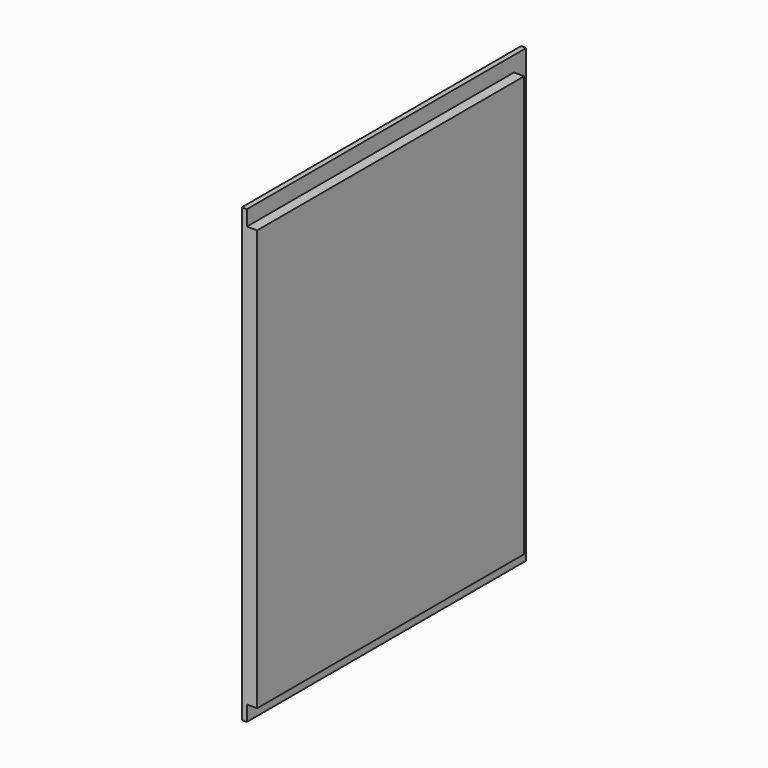
from build123d import *

# Parameters (mm, degrees)
SKETCH046_W             = 410
SKETCH046_H             = 530
PAD017_DEPTH            = 18
SKETCH047_W             = 410
SKETCH047_H             = 18
POCKET029_DEPTH         = 12
SKETCH048_W             = 18
SKETCH048_H             = 530
POCKET030_DEPTH         = 12
BODY016_ROLL_ANGLE      = -90
BODY016_PLACEMENT_ANGLE = -90


with BuildPart() as part:
    # Sketch046 → Pad017 (new body)
    with BuildSketch(Plane.XY):
        with Locations((0, 265)):
            Rectangle(SKETCH046_W, SKETCH046_H)
    extrude(amount=PAD017_DEPTH)

    # Sketch047 (on Face6 of Pad017) → Pocket029 (cut)
    with BuildSketch(Plane.XY.offset(18)):
        with Locations((0, 9)):
            Rectangle(SKETCH047_W, SKETCH047_H)
        with Locations((0, 521)):
            Rectangle(SKETCH047_W, SKETCH047_H)
    extrude(amount=-POCKET029_DEPTH, mode=Mode.SUBTRACT)

    # Sketch048 (on Face9 of Pocket029) → Pocket030 (cut)
    with BuildSketch(Plane.XY.offset(18)):
        with Locations((-196, 265)):
            Rectangle(SKETCH048_W, SKETCH048_H)
    extrude(amount=-POCKET030_DEPTH, mode=Mode.SUBTRACT)


with BuildPart() as part_1:
    # Body016 roll: moved
    add(part.part.rotate(Axis((0, 0, 0), (1, 0, 0)), BODY016_ROLL_ANGLE))


with BuildPart() as part_2:
    # Body016 placement: moved
    add(part_1.part.moved(Location((-263, 205, 530))).rotate(Axis((-263, 205, 530), (0, 0, 1)), BODY016_PLACEMENT_ANGLE))


solid = part_2.part
